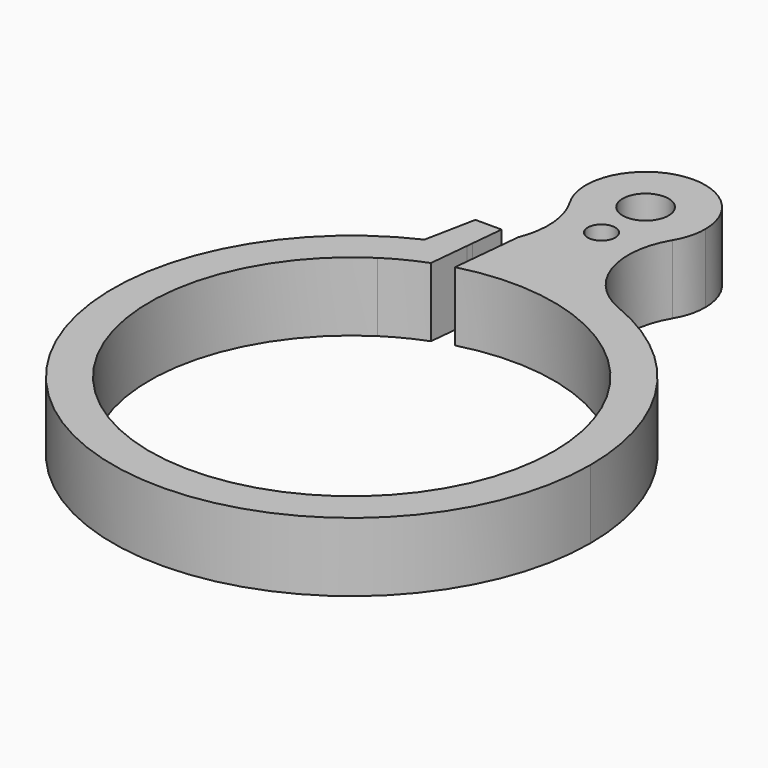
from build123d import *

# Parameters (mm, degrees)
F0_R     = 2.5
F1_DEPTH = 7.5
F2_R     = 1
F3_DEPTH = 10
F4_DEPTH = 25


with BuildPart() as f1:
    # F0 (on Top) → F1 (new body)
    with BuildSketch(Plane.XY):
        with BuildLine():
            ThreePointArc((1.4624940646, 33.6666666667), (3.832617517, 34.7501387667), (5.5866740582, 36.6774899598))
            ThreePointArc((5.5866740582, 36.6774899598), (6.2675107251, 38.2771217946), (6.5, 40))
            ThreePointArc((6.5, 40), (-1.7228782054, 46.2675107251), (-5.5866740582, 36.6774899598))
            ThreePointArc((-5.5866740582, 36.6774899598), (-3.832617517, 34.7501387667), (-1.4624940646, 33.6666666667))
            ThreePointArc((-1.4624940646, 33.6666666667), (-0.1677183698, 35.4905940254), (1.5, 34))
            ThreePointArc((1.5, 34), (1.4905940254, 33.8322816302), (1.4624940646, 33.6666666667))
        make_face()
        with Locations((0, 40)):
            Circle(F0_R, mode=Mode.SUBTRACT)
        with BuildLine():
            ThreePointArc((-5.3332565238, 25.44712901), (2.3423382025, 25.8942744974), (9.8131006729, 24.0770233871))
            ThreePointArc((9.8131006729, 24.0770233871), (4.8098794275, 29.40789523), (5.5866740582, 36.6774899598))
            ThreePointArc((5.5866740582, 36.6774899598), (3.832617517, 34.7501387667), (1.4624940646, 33.6666666667))
            ThreePointArc((1.4624940646, 33.6666666667), (0, 32.5), (-1.4624940646, 33.6666666667))
            ThreePointArc((-1.4624940646, 33.6666666667), (-3.832617517, 34.7501387667), (-5.5866740582, 36.6774899598))
            ThreePointArc((-5.5866740582, 36.6774899598), (-4.3898764062, 32.979997265), (-4.9088964418, 29.128452763))
            ThreePointArc((-4.9088964418, 29.128452763), (-4.9503969095, 29.0195498849), (-4.993341291, 28.9112082687))
            Line((-4.993341291, 28.9112082687), (-5.3332565238, 25.44712901))
        make_face()
        with BuildLine():
            ThreePointArc((-10.9419213055, 23.5854692161), (-13.9912480869, -21.9144923959), (26, 0))
            ThreePointArc((26, 0), (21.5770783182, 14.5061949267), (9.8131006729, 24.0770233871))
            ThreePointArc((9.8131006729, 24.0770233871), (2.3423382025, 25.8942744974), (-5.3332565238, 25.44712901))
            Line((-5.3332565238, 25.44712901), (-5.7464520703, 21.2362494006))
            ThreePointArc((-5.7464520703, 21.2362494006), (13.371201413, 17.4702882854), (22, 0))
            ThreePointArc((22, 0), (-10.5068405661, -19.3288980886), (-11.9642092108, 18.4623318668))
            Line((-11.9642092108, 18.4623318668), (-10.9419213055, 23.5854692161))
        make_face()
        with BuildLine():
            ThreePointArc((-9.8131006729, 24.0770233871), (-10.3804210274, 23.837929006), (-10.9419213055, 23.5854692161))
            Line((-10.9419213055, 23.5854692161), (-11.9642092108, 18.4623318668))
            ThreePointArc((-11.9642092108, 18.4623318668), (-9.9487622141, 19.6219807972), (-7.8221766033, 20.5624306245))
            Line((-7.8221766033, 20.5624306245), (-7.3939510007, 24.9264816731))
            ThreePointArc((-7.3939510007, 24.9264816731), (-8.6140032313, 24.5315908235), (-9.8131006729, 24.0770233871))
        make_face()
        with BuildLine():
            ThreePointArc((-7.326121242, 25.6177353666), (-8.504893301, 24.7429137255), (-9.8131006729, 24.0770233871))
            ThreePointArc((-9.8131006729, 24.0770233871), (-8.6140032313, 24.5315908235), (-7.3939510007, 24.9264816731))
            Line((-7.3939510007, 24.9264816731), (-7.326121242, 25.6177353666))
        make_face()
        with BuildLine():
            Line((-9.8358558903, 29.128452763), (-10.9419213055, 23.5854692161))
            ThreePointArc((-10.9419213055, 23.5854692161), (-10.3804210274, 23.837929006), (-9.8131006729, 24.0770233871))
            ThreePointArc((-9.8131006729, 24.0770233871), (-8.504893301, 24.7429137255), (-7.326121242, 25.6177353666))
            Line((-7.326121242, 25.6177353666), (-6.9816296089, 29.128452763))
            Line((-6.9816296089, 29.128452763), (-9.8358558903, 29.128452763))
        make_face()
    extrude(amount=F1_DEPTH)

    # F2 (on face) → F3 (cut)
    with BuildSketch(Plane(origin=(-15.0490291094, 3.0029334363, 0), x_dir=(-0.1956855032, -0.9806667037, 0), z_dir=(-0.9806667037, 0.1956855032, 0))):
        with Locations((-23.4226267785, 3.75)):
            Circle(F2_R)
    extrude(amount=-F3_DEPTH, mode=Mode.SUBTRACT)

    # F2 (on face) → F4 (cut)
    with BuildSketch(Plane(origin=(-15.0490291094, 3.0029334363, 0), x_dir=(-0.1956855032, -0.9806667037, 0), z_dir=(-0.9806667037, 0.1956855032, 0))):
        with BuildLine():
            Line((-20.9883089752, 3.1807049686), (-20.9883089752, 4.3192950314))
            ThreePointArc((-20.9883089752, 4.3192950314), (-25.9226267785, 3.75), (-20.9883089752, 3.1807049686))
        make_face()
        with Locations((-23.4226267785, 3.75)):
            Circle(F2_R, mode=Mode.SUBTRACT)
        with BuildLine():
            ThreePointArc((-20.9883089752, 3.1807049686), (-20.9391016117, 3.4634642327), (-20.9226267785, 3.75))
            ThreePointArc((-20.9226267785, 3.75), (-20.9391016117, 4.0365357673), (-20.9883089752, 4.3192950314))
            Line((-20.9883089752, 4.3192950314), (-20.9883089752, 3.1807049686))
        make_face()
    extrude(amount=F4_DEPTH, mode=Mode.SUBTRACT)


solid = f1.part
